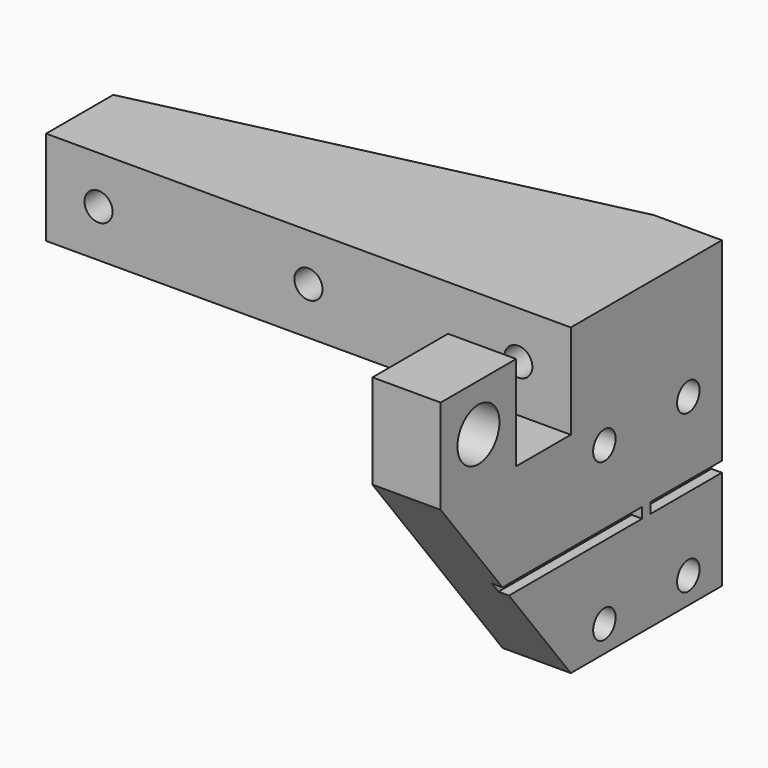
from build123d import *

# Parameters (mm, degrees)
SKETCH018_W     = 50
SKETCH018_H     = 18
PAD011_DEPTH    = 4.5
SKETCH019_R     = 1.3375
POCKET006_DEPTH = 8
POCKET007_DEPTH = 9.001
SKETCH053_R     = 1.3375
SKETCH053_R_2   = 2.5
PAD029_DEPTH    = 6.5
SKETCH055_W     = 8.5
SKETCH055_H     = 1
SKETCH055_W_2   = 24
POCKET024_DEPTH = 1


with BuildPart() as part:
    # Sketch018 → Pad011 (new body, symmetric)
    with BuildSketch(Plane.XY):
        with Locations((25, 9)):
            Rectangle(SKETCH018_W, SKETCH018_H)
    extrude(amount=PAD011_DEPTH, both=True)

    # Sketch019 → Pocket006 (cut)
    with BuildSketch(Plane.XZ):
        with Locations((5, 0)):
            Circle(SKETCH019_R)
        with Locations((25, 0)):
            Circle(SKETCH019_R)
        with Locations((45, 0)):
            Circle(SKETCH019_R)
    extrude(amount=-POCKET006_DEPTH, mode=Mode.SUBTRACT)

    # Sketch020 (on Face4 of Pocket006) → Pocket007 (cut, through all)
    with BuildSketch(Plane(origin=(0, 0, -4.5), x_dir=(1, 0, 0), z_dir=(0, 0, -1))):
        Polygon((0, -8), (43.5, -18), (0, -18), align=None)
    extrude(amount=-POCKET007_DEPTH, mode=Mode.SUBTRACT)

    # Sketch053 → Pad029 (join)
    with BuildSketch(Plane.YZ.offset(50)):
        Polygon((18, -4.5), (-6.5, -4.5), (-6.5, 4.5), (-15.5, 4.5), (-15.5, -4.5), (0, -24.5), (18, -24.5), align=None)
        with Locations((14, -7)):
            Circle(SKETCH053_R, mode=Mode.SUBTRACT)
        with Locations((4, -7)):
            Circle(SKETCH053_R, mode=Mode.SUBTRACT)
        with Locations((4, -22)):
            Circle(SKETCH053_R, mode=Mode.SUBTRACT)
        with Locations((14, -22)):
            Circle(SKETCH053_R, mode=Mode.SUBTRACT)
        with Locations((-11, 0)):
            Circle(SKETCH053_R_2, mode=Mode.SUBTRACT)
    extrude(amount=-PAD029_DEPTH)

    # Sketch055 (on Face7 of Pad029) → Pocket024 (cut)
    with BuildSketch(Plane.YZ.offset(50)):
        with Locations((13.75, -14.5)):
            Rectangle(SKETCH055_W, SKETCH055_H)
        with Locations((-3.5, -14.5)):
            Rectangle(SKETCH055_W_2, SKETCH055_H)
    extrude(amount=-POCKET024_DEPTH, mode=Mode.SUBTRACT)


with BuildPart() as part_1:
    # Body005 placement: moved
    add(part.part.moved(Location((75, 6.5, 0))))


solid = part_1.part
